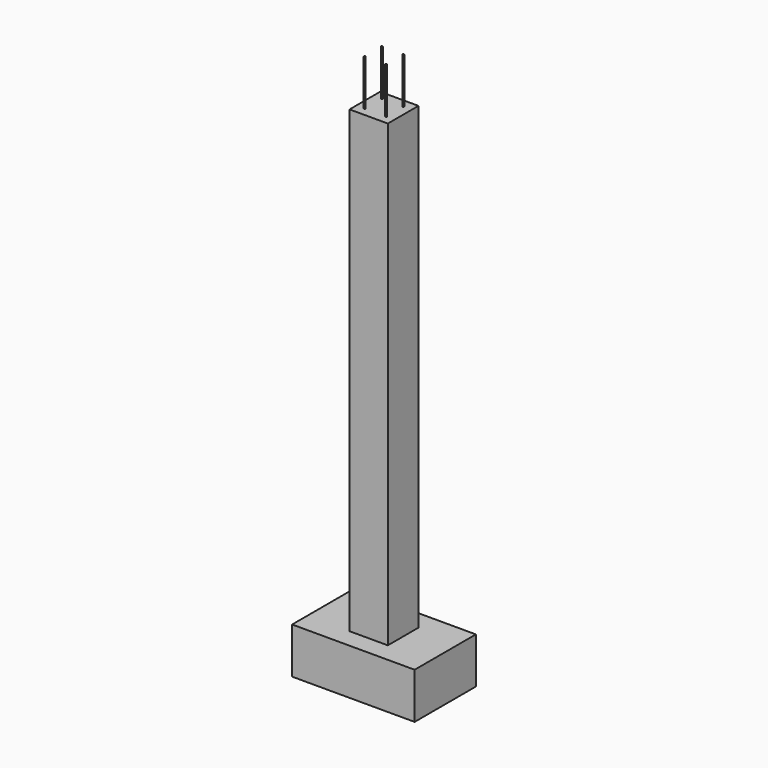
from build123d import *

# Parameters (mm, degrees)
F0_W     = 250
F0_H     = 250
F1_DEPTH = 3000
F2_R     = 5
F3_DEPTH = 3300
F4_W     = 800
F4_H     = 500
F5_DEPTH = 300


with BuildPart() as f1:
    # F0 (on Top) → F1 (new body)
    with BuildSketch(Plane.XY):
        Rectangle(F0_W, F0_H)
    extrude(amount=F1_DEPTH)


with BuildPart() as f3:
    # F2 (on Top) → F3 (new body)
    with BuildSketch(Plane.XY):
        with Locations((70, -70)):
            Circle(F2_R)
        with Locations((70, 70)):
            Circle(F2_R)
        with Locations((-70, 70)):
            Circle(F2_R)
        with Locations((-70, -70)):
            Circle(F2_R)
    extrude(amount=F3_DEPTH)


with BuildPart() as f5:
    # F4 (on Top) → F5 (new body)
    with BuildSketch(Plane.XY):
        Rectangle(F4_W, F4_H)
    extrude(amount=-F5_DEPTH)


solid = Compound([f1.part, f3.part, f5.part])
